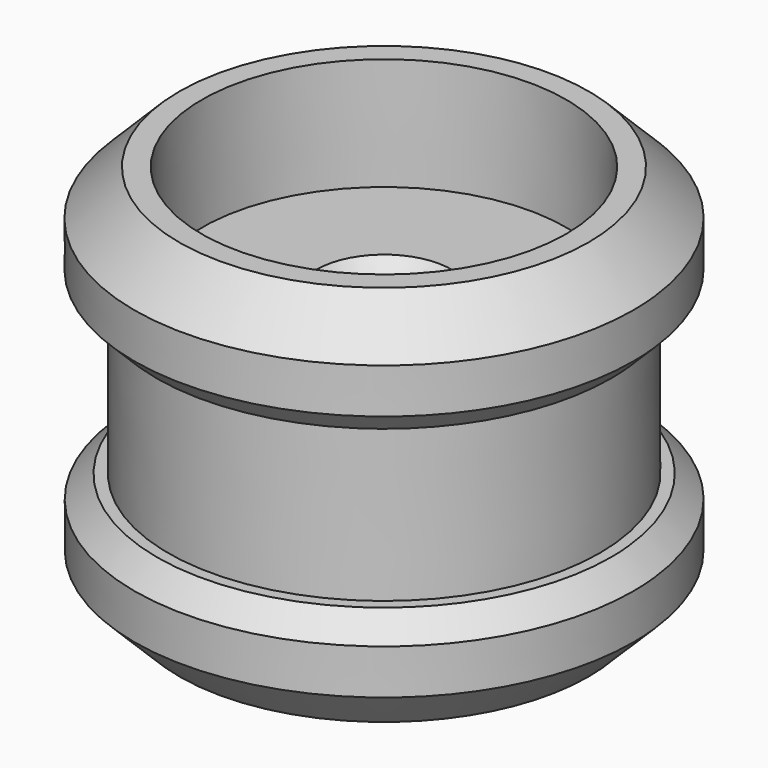
from build123d import *

# Parameters (mm, degrees)
F2_SIZE = 2
F3_SIZE = 1


with BuildPart() as f1:
    # F0 (on Front) → F1 (revolve)
    with BuildSketch(Plane.XZ):
        Polygon((11.0896060326, 2.2645946667), (8.0896060326, 2.2645946667), (8.0896060326, -2.7354053333), (9.5896060326, -2.7354053333), (11.0896060326, -2.7354053333), align=None)
        Polygon((9.5896060326, -2.7354053333), (8.0896060326, -2.7354053333), (1.9999996262, -2.7354053333), (1.9999996262, -9.7354053333), (8.0896060326, -9.7354053333), (9.5896060326, -9.7354053333), (9.5896060326, -2.7403513981), align=None)
        Polygon((11.0896060326, -9.7354053333), (9.5896060326, -9.7354053333), (8.0896060326, -9.7354053333), (8.0896060326, -14.7354053333), (11.0896060326, -14.7354053333), align=None)
    revolve(axis=Axis((-0.0051969837, 0, -6.2354053333), (0.0006114097, 0, -0.9999998131)))

    # F2
    f2_edges = [f1.edges().sort_by_distance(p)[0] for p in [
        (-11.089598, 0, -14.748966),
        (-11.110386, 0, 2.251021),
    ]]
    chamfer(f2_edges, length=F2_SIZE)

    # F3
    f3_edges = [f1.edges().sort_by_distance(p)[0] for p in [
        (-11.104272, 0, -2.748975),
        (-11.095712, 0, -9.74897),
        (-2.014672, 0, -2.73786),
        (-2.006112, 0, -9.737855),
    ]]
    chamfer(f3_edges, length=F3_SIZE)


solid = f1.part
